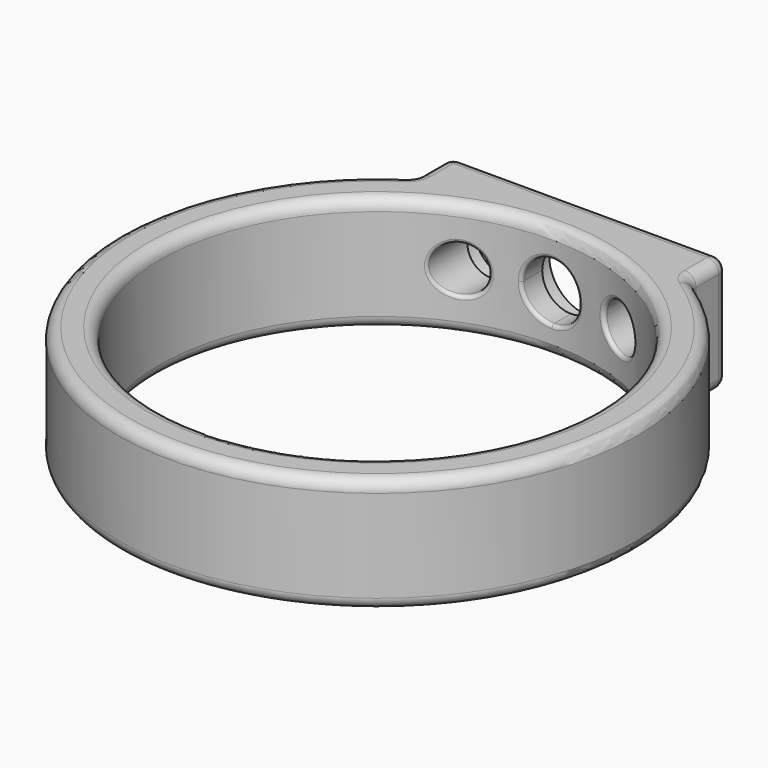
from build123d import *

# Parameters (mm, degrees)
F0_R     = 9.45
F1_DEPTH = 5
F2_R     = 0.5
F4_DEPTH = 5
F5_R     = 1.75
F5_R_2   = 1.5
F6_DEPTH = 1
F7_R     = 0.15


with BuildPart() as f1:
    # F0 (on Top) → F1 (new body)
    with BuildSketch(Plane.XY):
        with BuildLine():
            ThreePointArc((-6, 9.758362), (-6.059209, 9.522346), (-6.222814, 9.342227))
            ThreePointArc((-6.222814, 9.342227), (0, -11.225), (6.222814, 9.342227))
            ThreePointArc((6.222814, 9.342227), (6.059209, 9.522346), (6, 9.758362))
            Line((6, 9.758362), (6, 10.986866))
            ThreePointArc((6, 10.986866), (5.853553, 11.340419), (5.5, 11.486866))
            Line((5.5, 11.486866), (-5.5, 11.486866))
            ThreePointArc((-5.5, 11.486866), (-5.853553, 11.340419), (-6, 10.986866))
            Line((-6, 10.986866), (-6, 9.758362))
        make_face()
        Circle(F0_R, mode=Mode.SUBTRACT)
    extrude(amount=F1_DEPTH)

    # F2
    f2_edges = [f1.edges().sort_by_distance(p)[0] for p in [
        (-9.45, 0, 5),
        (0, -11.225, 5),
        (0, -11.225, 0),
        (-9.45, 0, 0),
    ]]
    fillet(f2_edges, radius=F2_R)

    # F3 (on face) → F4 (cut)
    with BuildSketch(Plane(origin=(0, 11.486866, 0), x_dir=(-1, 0, 0), z_dir=(0, 1, 0))):
        with BuildLine():
            Line((0, 2.5), (1.25, 2.5))
            ThreePointArc((1.25, 2.5), (0.883883, 3.383883), (0, 3.75))
            Line((0, 3.75), (0, 2.5))
        make_face()
        with BuildLine():
            ThreePointArc((-4.5, 2.5), (-3.5, 1.5), (-2.5, 2.5))
            Line((-2.5, 2.5), (-4.5, 2.5))
        make_face()
        with BuildLine():
            Line((-4.5, 2.5), (-2.5, 2.5))
            ThreePointArc((-2.5, 2.5), (-3.5, 3.5), (-4.5, 2.5))
        make_face()
        with BuildLine():
            ThreePointArc((0, 1.25), (0.883883, 1.616117), (1.25, 2.5))
            Line((1.25, 2.5), (0, 2.5))
            Line((0, 2.5), (0, 1.25))
        make_face()
        with BuildLine():
            ThreePointArc((4.5, 2.5), (3.5, 3.5), (2.5, 2.5))
            Line((2.5, 2.5), (4.5, 2.5))
        make_face()
        with BuildLine():
            Line((4.5, 2.5), (2.5, 2.5))
            ThreePointArc((2.5, 2.5), (3.5, 1.5), (4.5, 2.5))
        make_face()
        with BuildLine():
            Line((0, 2.5), (0, 3.75))
            ThreePointArc((0, 3.75), (-0.883883, 3.383883), (-1.25, 2.5))
            Line((-1.25, 2.5), (0, 2.5))
        make_face()
        with BuildLine():
            ThreePointArc((-1.25, 2.5), (-0.883883, 1.616117), (0, 1.25))
            Line((0, 1.25), (0, 2.5))
            Line((0, 2.5), (-1.25, 2.5))
        make_face()
    extrude(amount=-F4_DEPTH, mode=Mode.SUBTRACT)

    # F5 (on face) → F6 (cut)
    with BuildSketch(Plane(origin=(0, 11.486866, 0), x_dir=(-1, 0, 0), z_dir=(0, 1, 0))):
        with Locations((0, 2.5)):
            Circle(F5_R)
        with Locations((-3.5, 2.5)):
            Circle(F5_R_2)
        with Locations((3.5, 2.5)):
            Circle(F5_R_2)
    extrude(amount=-F6_DEPTH, mode=Mode.SUBTRACT)

    # F7
    f7_edges = [f1.edges().sort_by_distance(p)[0] for p in [
        (-9.45, 0, 0.5),
        (9.45, 0, 2.5),
        (-9.45, 0, 4.5),
        (-2.5, 9.113314, 2.5),
        (2.5, 9.113314, 2.5),
        (-1.25, 9.366963, 2.5),
    ]]
    fillet(f7_edges, radius=F7_R)


solid = f1.part
